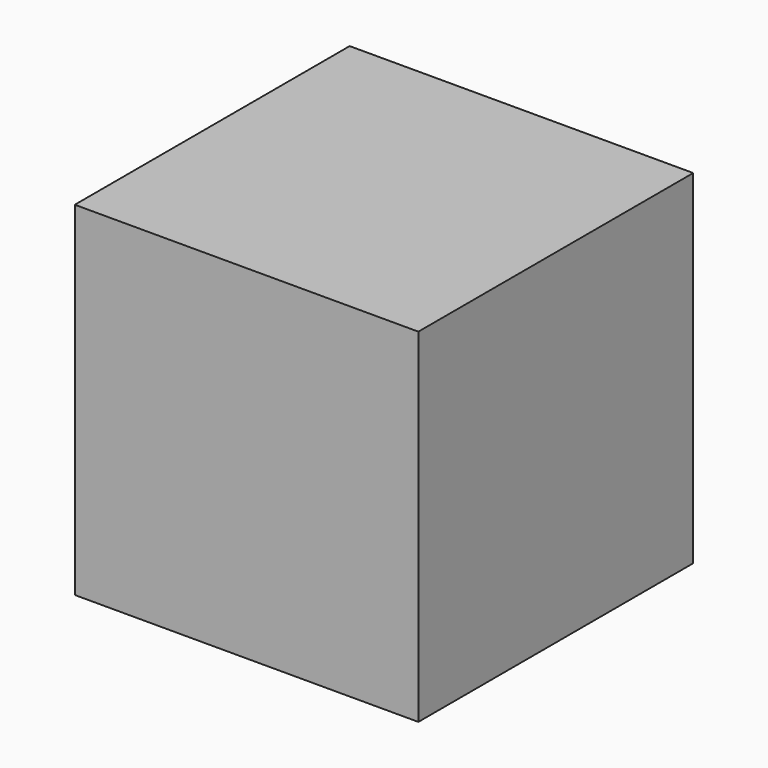
from build123d import *

# Parameters (mm, degrees)
SKETCH002_W  = 1.5
SKETCH002_H  = 3
PAD002_DEPTH = 3


with BuildPart() as part:
    # Sketch002 → Pad002 (new body)
    with BuildSketch(Plane.XY):
        with Locations((0.75, 0)):
            Rectangle(SKETCH002_W, SKETCH002_H)
    pad002 = extrude(amount=PAD002_DEPTH)

    # Mirrored001: Pad002 across Sketch002 V_Axis
    add(pad002.mirror(Plane(origin=(0, 0, 0), x_dir=(0, 0, 1), z_dir=(1, 0, 0))))


solid = part.part
